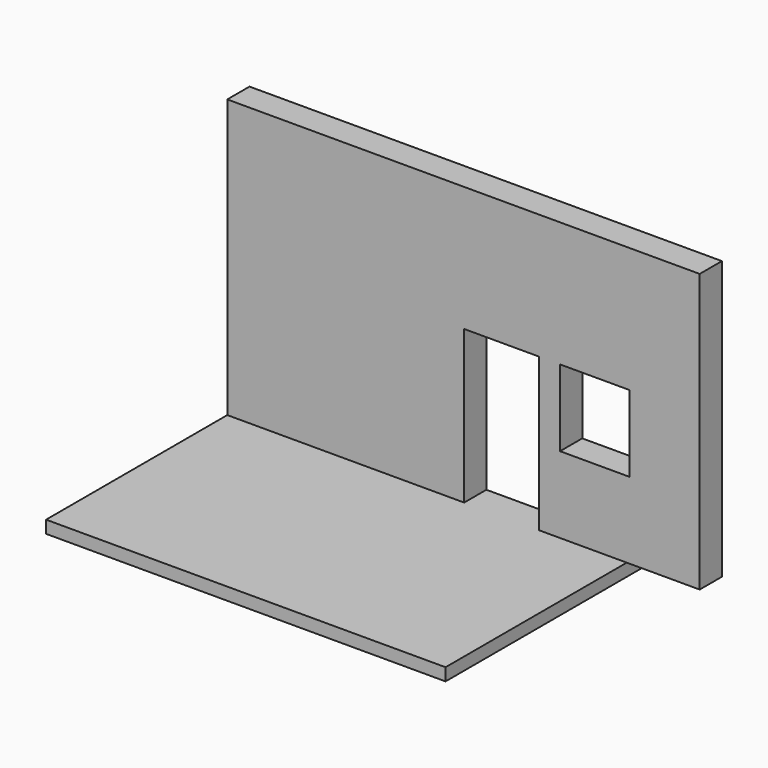
from build123d import *

# Parameters (mm, degrees)
F0_W     = 5750
F0_H     = 3500
F1_DEPTH = 180
F2_W     = 5750
F2_H     = 180
F3_DEPTH = 160
F4_W     = 5750
F4_H     = 200
F4_W_2   = 1050
F5_DEPTH = 4000
F6_W     = 1080
F6_H     = 2200
F6_W_2   = 1000
F6_H_2   = 1100
F7_DEPTH = 200.001
F8_DEPTH = 200


with BuildPart() as f1:
    # F0 (on Top) → F1 (new body)
    with BuildSketch(Plane.XY):
        with Locations((2875, 1750)):
            Rectangle(F0_W, F0_H)
    extrude(amount=F1_DEPTH)

    # F2 (on face) → F3 (join)
    with BuildSketch(Plane(origin=(0, 3500, 0), x_dir=(-1, 0, 0), z_dir=(0, 1, 0))):
        with Locations((-2875, 90)):
            Rectangle(F2_W, F2_H)
    extrude(amount=F3_DEPTH)

    # F4 (on face) → F5 (join)
    with BuildSketch(Plane.XY.offset(180)):
        with Locations((2875, 3560)):
            Rectangle(F4_W, F4_H)
        with Locations((6275, 3560)):
            Rectangle(F4_W_2, F4_H)
    extrude(amount=F5_DEPTH)

    # F6 (on face) → F7 (cut, through all)
    with BuildSketch(Plane.XZ.offset(-3460)):
        with Locations((3950, 1280)):
            Rectangle(F6_W, F6_H)
        with Locations((5290, 1830)):
            Rectangle(F6_W_2, F6_H_2)
    extrude(amount=-F7_DEPTH, mode=Mode.SUBTRACT)

    # F8 (add): a face of the model
    f8_faces = [f1.faces().sort_by_distance(p)[0] for p in [
        (3257.2837632777, 3460, 2286.3648625864),
    ]]
    extrude(f8_faces, amount=F8_DEPTH)


solid = f1.part
